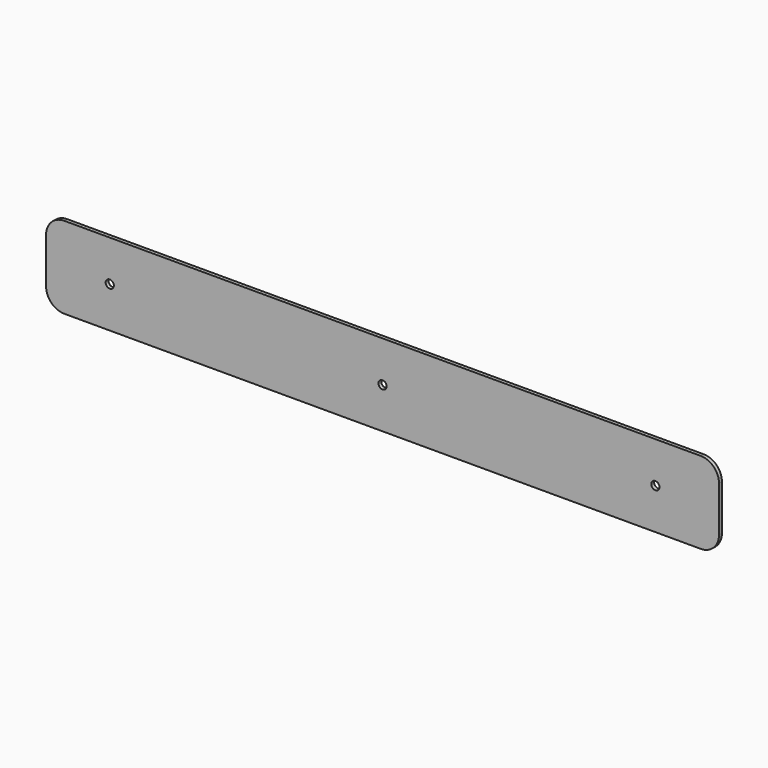
from build123d import *

# Parameters (mm, degrees)
F0_W     = 370
F0_H     = 45
F1_DEPTH = 2
F2_R     = 2.25
F3_DEPTH = 25
F4_R     = 10


with BuildPart() as f1:
    # F0 (on Front) → F1 (new body)
    with BuildSketch(Plane.XZ):
        with Locations((0, 22.5)):
            Rectangle(F0_W, F0_H)
    extrude(amount=F1_DEPTH)

    # F2 (on face) → F3 (cut)
    with BuildSketch(Plane.XZ.offset(2)):
        with Locations((0, 22.5)):
            Circle(F2_R)
        with Locations((-150, 22.5)):
            Circle(F2_R)
        with Locations((150, 22.5)):
            Circle(F2_R)
    extrude(amount=-F3_DEPTH, mode=Mode.SUBTRACT)

    # F4
    f4_edges = [f1.edges().sort_by_distance(p)[0] for p in [
        (185, -1, 45),
        (185, -1, 0),
        (-185, -1, 45),
        (-185, -1, 0),
    ]]
    fillet(f4_edges, radius=F4_R)


solid = f1.part
